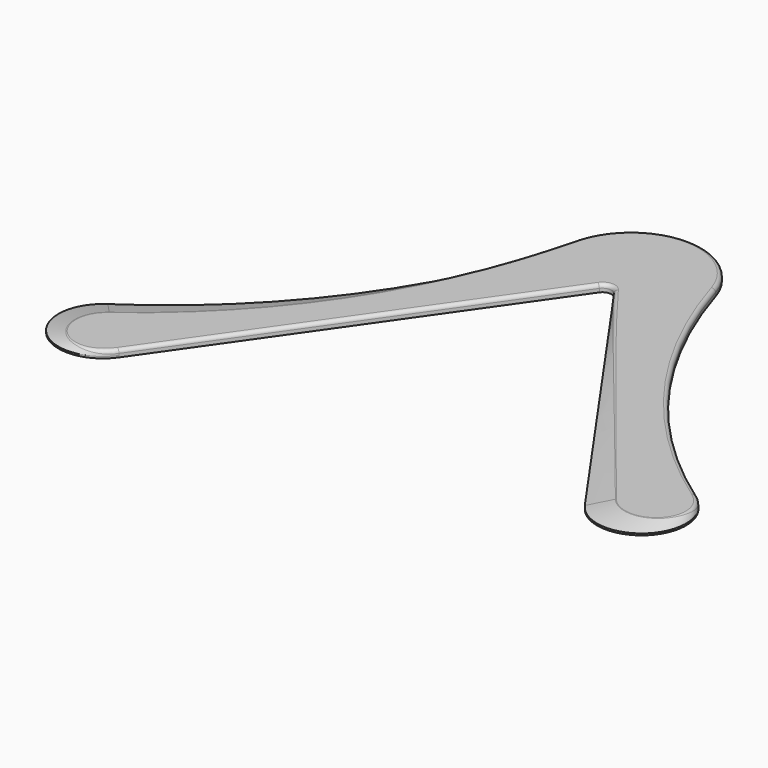
from build123d import *

# Parameters (mm, degrees)
PAD_DEPTH = 1
FILLET_R  = 2


with BuildPart() as part:
    # Sketch → Loft section 0
    with BuildSketch(Plane.XY):
        with BuildLine():
            Line((-4.09576, 2.867882), (-130.282576, -177.345568))
            ThreePointArc((-164.635111, -142.209053), (-168.63735, -180.483273), (-130.282576, -177.345568))
            ThreePointArc((-164.635111, -142.209053), (-86.123884, -66.881649), (-38.476503, 30.934289))
            ThreePointArc((38.22531, 31.782432), (-0.442279, 59.997555), (-38.476503, 30.934289))
            ThreePointArc((38.22531, 31.782432), (82.673152, -56.820578), (153.568717, -126.102055))
            ThreePointArc((118.811047, -160.962527), (156.993603, -164.274662), (153.568717, -126.102055))
            Line((4.09576, 2.867882), (118.811047, -160.962527))
            ThreePointArc((4.09576, 2.867882), (0, 5), (-4.09576, 2.867882))
        make_face()
    # Sketch001 → Loft section 1
    with BuildSketch(Plane.XY.offset(3)):
        with BuildLine():
            Line((-4.09576, 2.867882), (-130.282576, -177.345568))
            ThreePointArc((-155.648016, -152.488447), (-157.625766, -179.877279), (-130.282576, -177.345568))
            ThreePointArc((-155.648016, -152.488447), (-79.841331, -71.777908), (-38.476503, 30.934289))
            ThreePointArc((38.22531, 31.782432), (-0.442279, 59.997555), (-38.476503, 30.934289))
            ThreePointArc((38.22531, 31.782432), (82.673152, -56.820578), (153.568717, -126.102055))
            ThreePointArc((129.282887, -152.184683), (156.461518, -153.143294), (153.568717, -126.102055))
            Line((4.09576, 2.867882), (129.282887, -152.184683))
            ThreePointArc((4.09576, 2.867882), (0, 5), (-4.09576, 2.867882))
        make_face()
    loft()

    # Sketch → Pad (new body)
    with BuildSketch(Plane.XY):
        with BuildLine():
            Line((-4.09576, 2.867882), (-130.282576, -177.345568))
            ThreePointArc((-164.635111, -142.209053), (-168.63735, -180.483273), (-130.282576, -177.345568))
            ThreePointArc((-164.635111, -142.209053), (-86.123884, -66.881649), (-38.476503, 30.934289))
            ThreePointArc((38.22531, 31.782432), (-0.442279, 59.997555), (-38.476503, 30.934289))
            ThreePointArc((38.22531, 31.782432), (82.673152, -56.820578), (153.568717, -126.102055))
            ThreePointArc((118.811047, -160.962527), (156.993603, -164.274662), (153.568717, -126.102055))
            Line((4.09576, 2.867882), (118.811047, -160.962527))
            ThreePointArc((4.09576, 2.867882), (0, 5), (-4.09576, 2.867882))
        make_face()
    extrude(amount=-PAD_DEPTH)

    # Fillet
    fillet_edges = [part.edges().sort_by_distance(p)[0] for p in [
        (0, 5, 3),
        (-67.189168, -87.238843, 3),
        (-157.625766, -179.877279, 3),
        (-79.841331, -71.777908, 3),
        (-0.442279, 59.997555, 3),
        (82.673152, -56.820578, 3),
        (156.461518, -153.143294, 3),
        (66.689324, -74.6584, 3),
    ]]
    fillet(fillet_edges, radius=FILLET_R)


solid = part.part
